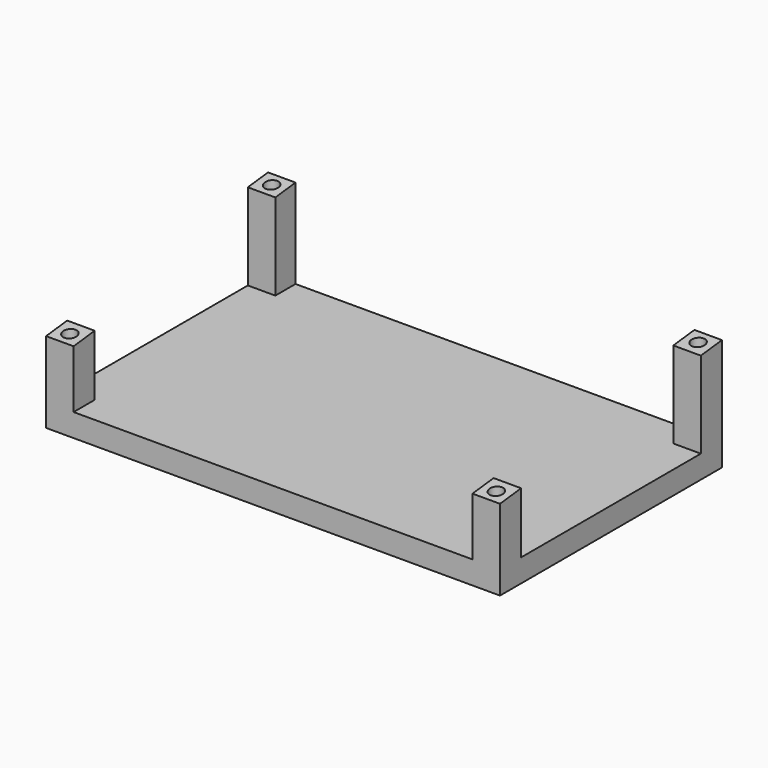
from build123d import *

# Parameters (mm, degrees)
F1_DEPTH = 5
F0_W     = 6
F0_H     = 5.5
F0_R     = 1.5
F0_H_2   = 5.75
F2_DEPTH = 25
F4_DEPTH = 105


with BuildPart() as f1:
    # F0 (on Top) → F1 (new body)
    with BuildSketch(Plane.XY):
        Polygon((43.5, 30.25), (-43.5, 30.25), (-43.5, 24.75), (-49.5, 24.75), (-49.5, -24.5), (-43.5, -24.5), (-43.5, -30.25), (43.5, -30.25), (43.5, -24.5), (49.5, -24.5), (49.5, 24.5), (43.5, 24.5), align=None)
    extrude(amount=F1_DEPTH)

    # F0 (on Top) → F2 (join)
    with BuildSketch(Plane.XY):
        with Locations((-46.5, 27.5)):
            Rectangle(F0_W, F0_H)
        with Locations((-46.5, 27.5)):
            Circle(F0_R, mode=Mode.SUBTRACT)
        with Locations((-46.5, -27.375)):
            Rectangle(F0_W, F0_H_2)
        with Locations((-46.5, -27.5)):
            Circle(F0_R, mode=Mode.SUBTRACT)
        with Locations((46.5, -27.375)):
            Rectangle(F0_W, F0_H_2)
        with Locations((46.5, -27.5)):
            Circle(F0_R, mode=Mode.SUBTRACT)
        with Locations((46.5, 27.375)):
            Rectangle(F0_W, F0_H_2)
        with Locations((46.5, 27.5)):
            Circle(F0_R, mode=Mode.SUBTRACT)
    extrude(amount=F2_DEPTH)

    # F3 (on face) → F4 (cut)
    with BuildSketch(Plane.YZ.offset(49.5)):
        Polygon((34.920923, 25), (34.537785, 31.615168), (-33.879854, 31.615168), (-33.879854, 17.220095), align=None)
    extrude(amount=-F4_DEPTH, mode=Mode.SUBTRACT)


solid = f1.part
